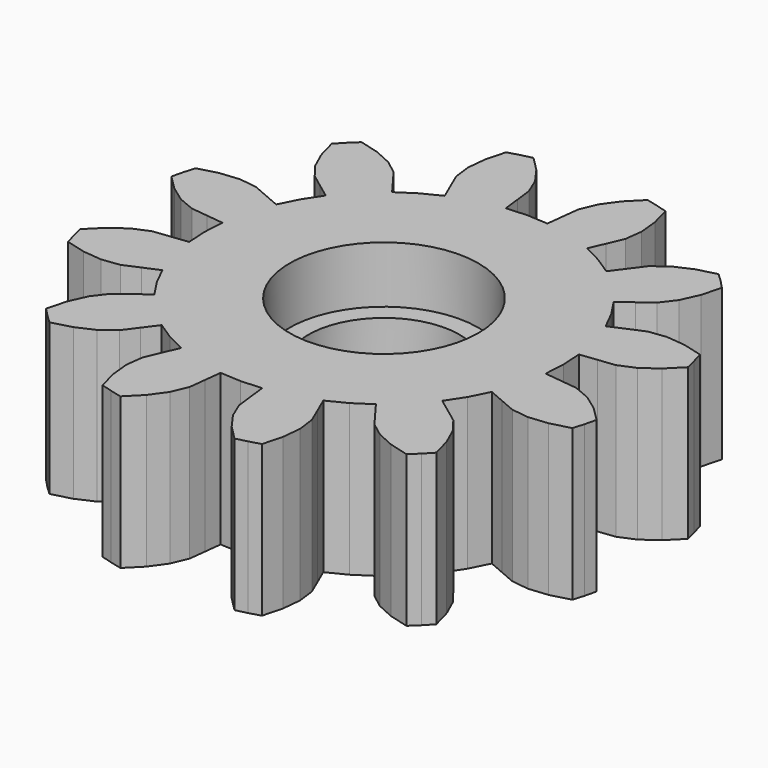
from build123d import *

# Parameters (mm, degrees)
F0_R     = 2
F1_DEPTH = 4
F2_R     = 2.5
F3_DEPTH = 1.5
F4_R     = 2.5
F5_DEPTH = 1.5


with BuildPart() as f1:
    # F0 (on Top) → F1 (new body)
    with BuildSketch(Plane.XY):
        Polygon((4.71808, -0.549743), (4.75, 0), (4.71808, 0.549743), (5.165056, 0.601824), (5.611973, 0.654414), (6.042571, 0.835065), (6.451897, 1.12939), (6.835156, 1.510179), (6.761481, 1.811733), (6.674508, 2.109724), (6.152202, 2.247869), (5.650552, 2.298099), (5.187318, 2.239248), (4.773982, 2.061333), (4.360849, 1.882949), (4.113621, 2.375), (3.811106, 2.835132), (4.172158, 3.103723), (4.532904, 3.372726), (4.815488, 3.744473), (5.022812, 4.204029), (5.164329, 4.725432), (4.949747, 4.949747), (4.725432, 5.164329), (4.204029, 5.022812), (3.744473, 4.815488), (3.372726, 4.532904), (3.103723, 4.172158), (2.835132, 3.811106), (2.375, 4.113621), (1.882949, 4.360849), (2.061333, 4.773982), (2.239248, 5.187318), (2.298099, 5.650552), (2.247869, 6.152202), (2.109724, 6.674508), (1.811733, 6.761481), (1.510179, 6.835156), (1.12939, 6.451897), (0.835065, 6.042571), (0.654414, 5.611973), (0.601824, 5.165056), (0.549743, 4.71808), (0, 4.75), (-0.549743, 4.71808), (-0.601824, 5.165056), (-0.654414, 5.611973), (-0.835065, 6.042571), (-1.12939, 6.451897), (-1.510179, 6.835156), (-1.811733, 6.761481), (-2.109724, 6.674508), (-2.247869, 6.152202), (-2.298099, 5.650552), (-2.239248, 5.187318), (-2.061333, 4.773982), (-1.882949, 4.360849), (-2.375, 4.113621), (-2.835132, 3.811106), (-3.103723, 4.172158), (-3.372726, 4.532904), (-3.744473, 4.815488), (-4.204029, 5.022812), (-4.725432, 5.164329), (-4.949747, 4.949747), (-5.164329, 4.725432), (-5.022812, 4.204029), (-4.815488, 3.744473), (-4.532904, 3.372726), (-4.172158, 3.103723), (-3.811106, 2.835132), (-4.113621, 2.375), (-4.360849, 1.882949), (-4.773982, 2.061333), (-5.187318, 2.239248), (-5.650552, 2.298099), (-6.152202, 2.247869), (-6.674508, 2.109724), (-6.761481, 1.811733), (-6.835156, 1.510179), (-6.451897, 1.12939), (-6.042571, 0.835065), (-5.611973, 0.654414), (-5.165056, 0.601824), (-4.71808, 0.549743), (-4.75, 0), (-4.71808, -0.549743), (-5.165056, -0.601824), (-5.611973, -0.654414), (-6.042571, -0.835065), (-6.451897, -1.12939), (-6.835156, -1.510179), (-6.761481, -1.811733), (-6.674508, -2.109724), (-6.152202, -2.247869), (-5.650552, -2.298099), (-5.187318, -2.239248), (-4.773982, -2.061333), (-4.360849, -1.882949), (-4.113621, -2.375), (-3.811106, -2.835132), (-4.172158, -3.103723), (-4.532904, -3.372726), (-4.815488, -3.744473), (-5.022812, -4.204029), (-5.164329, -4.725432), (-4.949747, -4.949747), (-4.725432, -5.164329), (-4.204029, -5.022812), (-3.744473, -4.815488), (-3.372726, -4.532904), (-3.103723, -4.172158), (-2.835132, -3.811106), (-2.375, -4.113621), (-1.882949, -4.360849), (-2.061333, -4.773982), (-2.239248, -5.187318), (-2.298099, -5.650552), (-2.247869, -6.152202), (-2.109724, -6.674508), (-1.811733, -6.761481), (-1.510179, -6.835156), (-1.12939, -6.451897), (-0.835065, -6.042571), (-0.654414, -5.611973), (-0.601824, -5.165056), (-0.549743, -4.71808), (0, -4.75), (0.549743, -4.71808), (0.601824, -5.165056), (0.654414, -5.611973), (0.835065, -6.042571), (1.12939, -6.451897), (1.510179, -6.835156), (1.811733, -6.761481), (2.109724, -6.674508), (2.247869, -6.152202), (2.298099, -5.650552), (2.239248, -5.187318), (2.061333, -4.773982), (1.882949, -4.360849), (2.375, -4.113621), (2.835132, -3.811106), (3.103723, -4.172158), (3.372726, -4.532904), (3.744473, -4.815488), (4.204029, -5.022812), (4.725432, -5.164329), (4.949747, -4.949747), (5.164329, -4.725432), (5.022812, -4.204029), (4.815488, -3.744473), (4.532904, -3.372726), (4.172158, -3.103723), (3.811106, -2.835132), (4.113621, -2.375), (4.360849, -1.882949), (4.773982, -2.061333), (5.187318, -2.239248), (5.650552, -2.298099), (6.152202, -2.247869), (6.674508, -2.109724), (6.761481, -1.811733), (6.835156, -1.510179), (6.451897, -1.12939), (6.042571, -0.835065), (5.611973, -0.654414), (5.165056, -0.601824), align=None)
        with Locations((1e-06, 0)):
            Circle(F0_R, mode=Mode.SUBTRACT)
    extrude(amount=F1_DEPTH)

    # F2 (on face) → F3 (cut)
    with BuildSketch(Plane.XY.offset(4)):
        with Locations((1e-06, 0)):
            Circle(F2_R)
    extrude(amount=-F3_DEPTH, mode=Mode.SUBTRACT)

    # F4 (on face) → F5 (cut)
    with BuildSketch(Plane(origin=(0, 0, 0), x_dir=(1, 0, 0), z_dir=(0, 0, -1))):
        with Locations((1e-06, 0)):
            Circle(F4_R)
    extrude(amount=-F5_DEPTH, mode=Mode.SUBTRACT)


solid = f1.part
